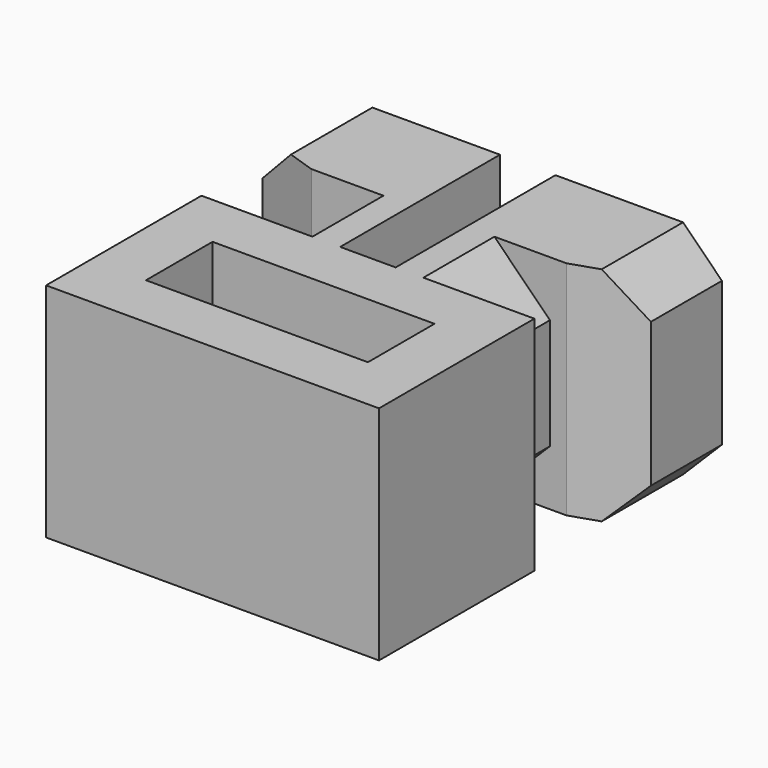
from build123d import *

# Parameters (mm, degrees)
BOX007_W           = 1
BOX007_H           = 3
BOX007_DEPTH       = 4
BOX009_W           = 3
BOX009_H           = 2
BOX009_DEPTH       = 4
CHAMFER001_SIZE2   = 1.2
CHAMFER001_SIZE    = 0.4
CHAMFER003_SIZE    = 0.7
BOX008_W           = 1
BOX008_H           = 3
BOX008_DEPTH       = 4
BOX006_W           = 6
BOX006_H           = 1
BOX006_DEPTH       = 4
BOX005_W           = 6
BOX005_H           = 1
BOX005_DEPTH       = 4
BOX003_W           = 1.5
BOX003_H           = 2
BOX003_DEPTH       = 4
CHAMFER009005_SIZE = 1
BOX010_W           = 3
BOX010_H           = 2
BOX010_DEPTH       = 4
CHAMFER_SIZE2      = 1.2
CHAMFER_SIZE       = 0.4
CHAMFER002_SIZE    = 0.7
BOX004_W           = 1.5
BOX004_H           = 2
BOX004_DEPTH       = 4
CHAMFER009006_SIZE = 1


with BuildPart() as cube007:
    # Box007 → Box007 (new body)
    with BuildSketch(Plane(origin=(-1, -3.5, 0), x_dir=(1, 0, 0), z_dir=(0, 0, 1))):
        with Locations((0.5, 1.5)):
            Rectangle(BOX007_W, BOX007_H)
    extrude(amount=BOX007_DEPTH)


with BuildPart() as chamfer003:
    # Box009 → Box009 (new body)
    with BuildSketch(Plane(origin=(2.5, 1.5, 0), x_dir=(1, 0, 0), z_dir=(0, 0, 1))):
        with Locations((1.5, 1)):
            Rectangle(BOX009_W, BOX009_H)
    extrude(amount=BOX009_DEPTH)

    # Chamfer001
    chamfer001_edges = [chamfer003.edges().sort_by_distance(p)[0] for p in [
        (5.5, 1.5, 2),
    ]]
    chamfer001_side = chamfer003.faces().sort_by_distance((5.5, 2.5, 2))[0]
    chamfer(chamfer001_edges, length=CHAMFER001_SIZE, length2=CHAMFER001_SIZE2, reference=chamfer001_side)

    # Chamfer003
    chamfer003_edges = [chamfer003.edges().sort_by_distance(p)[0] for p in [
        (5.5, 2.7, 4),
        (5.5, 2.7, 0),
    ]]
    chamfer(chamfer003_edges, length=CHAMFER003_SIZE)


with BuildPart() as chamfer003_1:
    # Chamfer003 placement: moved
    add(chamfer003.part.moved(Location((0, 0.1, 0))))


with BuildPart() as cube008:
    # Box008 → Box008 (new body)
    with BuildSketch(Plane(origin=(4, -3.5, 0), x_dir=(1, 0, 0), z_dir=(0, 0, 1))):
        with Locations((0.5, 1.5)):
            Rectangle(BOX008_W, BOX008_H)
    extrude(amount=BOX008_DEPTH)


with BuildPart() as cube006:
    # Box006 → Box006 (new body)
    with BuildSketch(Plane(origin=(-1, -3.5, 0), x_dir=(1, 0, 0), z_dir=(0, 0, 1))):
        with Locations((3, 0.5)):
            Rectangle(BOX006_W, BOX006_H)
    extrude(amount=BOX006_DEPTH)


with BuildPart() as cube005:
    # Box005 → Box005 (new body)
    with BuildSketch(Plane(origin=(-1, -1, 0), x_dir=(1, 0, 0), z_dir=(0, 0, 1))):
        with Locations((3, 0.5)):
            Rectangle(BOX005_W, BOX005_H)
    extrude(amount=BOX005_DEPTH)


with BuildPart() as chamfer009005:
    # Box003 → Box003 (new body)
    with BuildSketch(Plane.XY):
        with Locations((0.75, 1)):
            Rectangle(BOX003_W, BOX003_H)
    extrude(amount=BOX003_DEPTH)

    # Chamfer009005
    chamfer009005_edges = [chamfer009005.edges().sort_by_distance(p)[0] for p in [
        (0, 1, 4),
        (0, 1, 0),
    ]]
    chamfer(chamfer009005_edges, length=CHAMFER009005_SIZE)


with BuildPart() as chamfer002:
    # Box010 → Box010 (new body)
    with BuildSketch(Plane(origin=(-1.5, 1.5, 0), x_dir=(1, 0, 0), z_dir=(0, 0, 1))):
        with Locations((1.5, 1)):
            Rectangle(BOX010_W, BOX010_H)
    extrude(amount=BOX010_DEPTH)

    # Chamfer
    chamfer_edges = [chamfer002.edges().sort_by_distance(p)[0] for p in [
        (-1.5, 1.5, 2),
    ]]
    chamfer_side = chamfer002.faces().sort_by_distance((-1.5, 2.5, 2))[0]
    chamfer(chamfer_edges, length=CHAMFER_SIZE, length2=CHAMFER_SIZE2, reference=chamfer_side)

    # Chamfer002
    chamfer002_edges = [chamfer002.edges().sort_by_distance(p)[0] for p in [
        (-1.5, 2.7, 4),
        (-1.5, 2.7, 0),
    ]]
    chamfer(chamfer002_edges, length=CHAMFER002_SIZE)


with BuildPart() as chamfer002_1:
    # Chamfer002 placement: moved
    add(chamfer002.part.moved(Location((0, 0.1, 0))))


with BuildPart() as fusion008:
    # Box004 → Box004 (new body)
    with BuildSketch(Plane(origin=(2.5, 0, 0), x_dir=(1, 0, 0), z_dir=(0, 0, 1))):
        with Locations((0.75, 1)):
            Rectangle(BOX004_W, BOX004_H)
    extrude(amount=BOX004_DEPTH)

    # Chamfer009006
    chamfer009006_edges = [fusion008.edges().sort_by_distance(p)[0] for p in [
        (4, 1, 4),
        (4, 1, 0),
    ]]
    chamfer(chamfer009006_edges, length=CHAMFER009006_SIZE)

    # Fusion008: union Cube007, Chamfer003, Cube008, Cube006, Cube005, Chamfer009005, Chamfer002
    add(cube007.part)
    add(chamfer003_1.part)
    add(cube008.part)
    add(cube006.part)
    add(cube005.part)
    add(chamfer009005.part)
    add(chamfer002_1.part)


solid = fusion008.part
